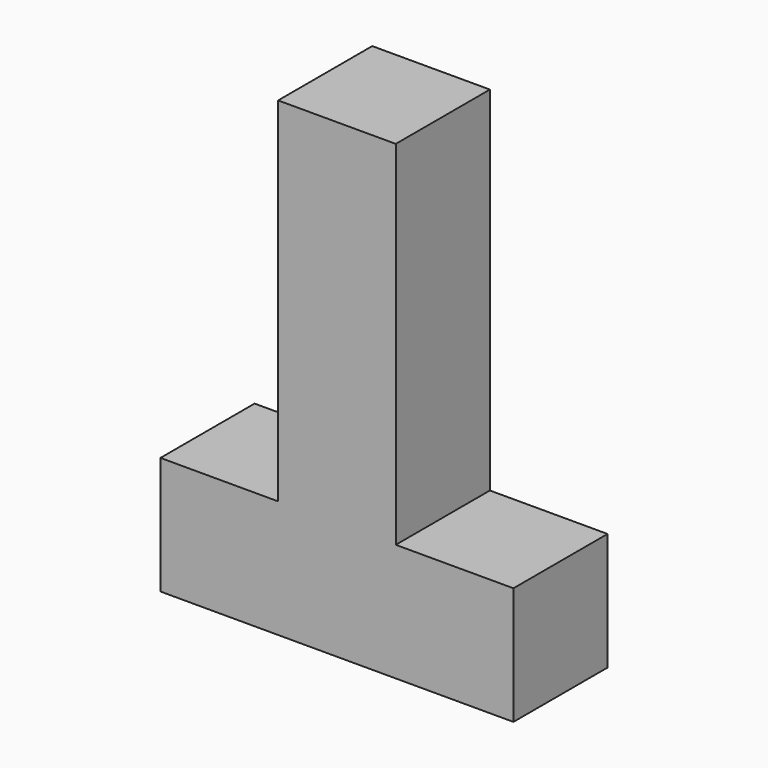
from build123d import *

# Parameters (mm, degrees)
F0_W     = 25.4
F0_H     = 25.4
F1_DEPTH = 25.4
F2_W     = 25.4
F2_H     = 76.2
F3_DEPTH = 25.4


with BuildPart() as f1:
    # F0 (on Front) → F1 (new body)
    with BuildSketch(Plane.XZ):
        with Locations((-12.7, -12.7)):
            Rectangle(F0_W, F0_H)
    extrude(amount=F1_DEPTH)

    # F2 (on Front) → F3 (join)
    with BuildSketch(Plane.XZ):
        Polygon((25.4, 0), (0, 0), (0, -25.4), (25.4, -25.4), (50.8, -25.4), (50.8, 0), align=None)
        with Locations((12.7, 38.1)):
            Rectangle(F2_W, F2_H)
    extrude(amount=F3_DEPTH)


solid = f1.part
